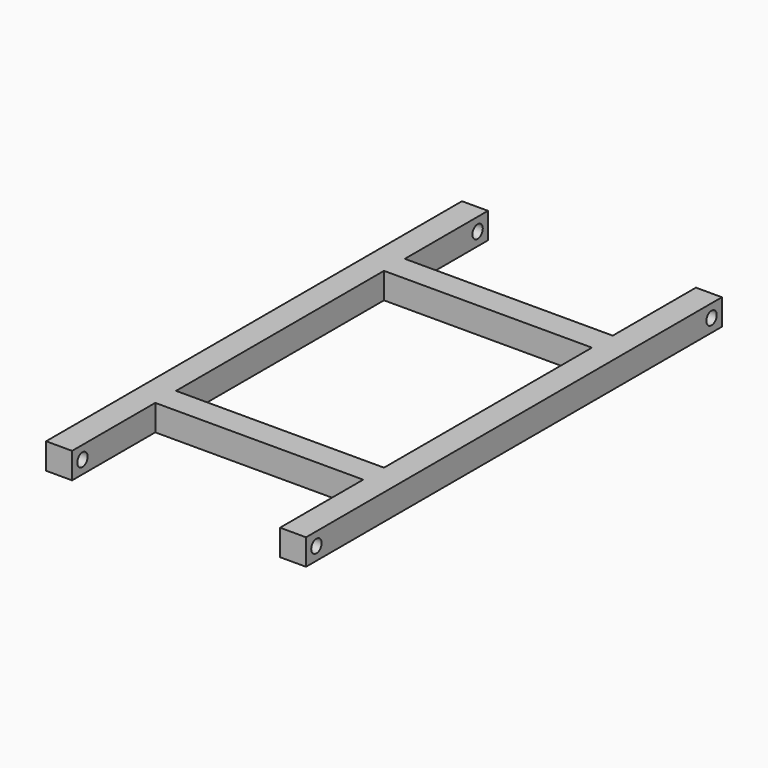
from build123d import *

# Parameters (mm, degrees)
F0_W     = 1600
F0_H     = 2000
F1_DEPTH = 200
F3_D     = 100


with BuildPart() as f1:
    # F0 (on Top) → F1 (new body)
    with BuildSketch(Plane.XY):
        Polygon((-800, 2000), (-1000, 2000), (-1000, -2000), (-800, -2000), (-800, -1200), (800, -1200), (800, -2000), (1000, -2000), (1000, 2000), (800, 2000), (800, 1200), (-800, 1200), align=None)
        Rectangle(F0_W, F0_H, mode=Mode.SUBTRACT)
    extrude(amount=F1_DEPTH)

    # F3 (through all)
    with Locations(Plane(origin=(-1000, 0, 0), x_dir=(0, -1, 0), z_dir=(-1, 0, 0))):
        with Locations((-1900, 100), (1900, 100)):
            Hole(F3_D / 2)


solid = f1.part
